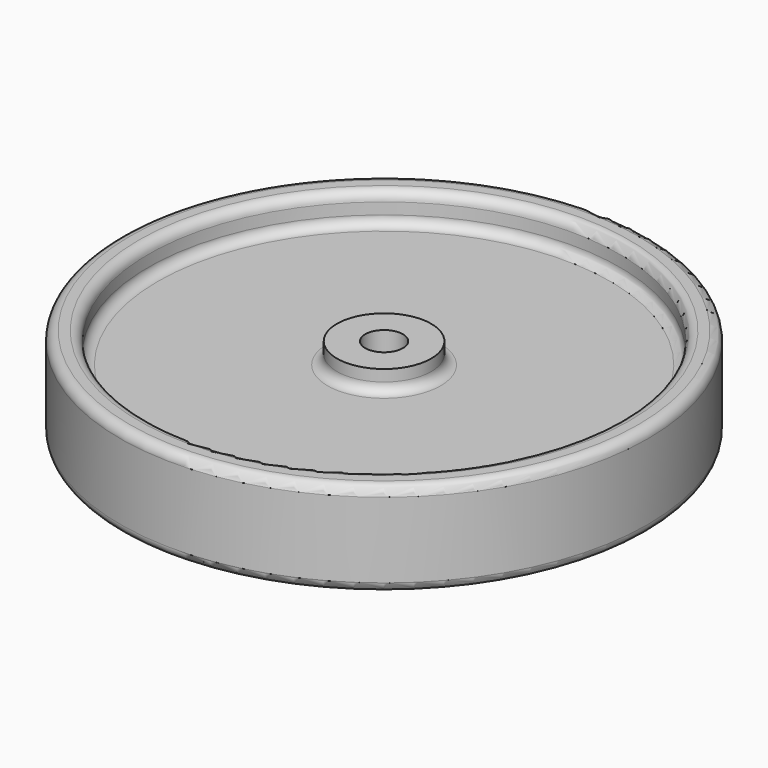
from build123d import *


with BuildPart() as f1:
    # F0 (on Front) → F1 (revolve)
    with BuildSketch(Plane.XZ):
        with BuildLine():
            Line((2, 4), (2, -4))
            Line((2, -4), (5, -4))
            Line((5, -4), (5, -2.782732))
            ThreePointArc((5, -2.782732), (5.292893, -2.075625), (6, -1.782732))
            Line((6, -1.782732), (24, -1.782732))
            ThreePointArc((24, -1.782732), (24.707107, -2.075625), (25, -2.782732))
            Line((25, -2.782732), (25, -4))
            ThreePointArc((25, -4), (25.292893, -4.707107), (26, -5))
            Line((26, -5), (27, -5))
            ThreePointArc((27, -5), (27.707107, -4.707107), (28, -4))
            Line((28, -4), (28, 4))
            ThreePointArc((28, 4), (27.707107, 4.707107), (27, 5))
            Line((27, 5), (26, 5))
            ThreePointArc((26, 5), (25.292893, 4.707107), (25, 4))
            Line((25, 4), (25, 2.782732))
            ThreePointArc((25, 2.782732), (24.707107, 2.075625), (24, 1.782732))
            Line((24, 1.782732), (6, 1.782732))
            ThreePointArc((6, 1.782732), (5.292893, 2.075625), (5, 2.782732))
            Line((5, 2.782732), (5, 4))
            Line((5, 4), (2, 4))
        make_face()
    revolve(axis=Axis((0, 0, 11.894715), (0, 0, 1)))


solid = f1.part
